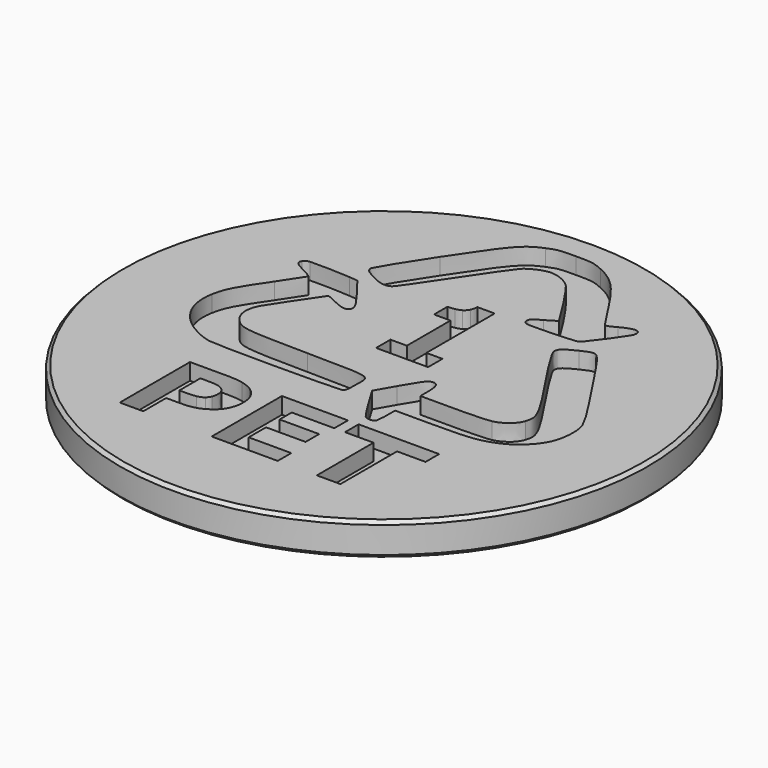
from build123d import *

# Parameters (mm, degrees)
POCKET_DEPTH = 1.25


with BuildPart() as part:
    # Sketch (on DatumPlane) → Revolution (revolve)
    with BuildSketch(Plane.YZ):
        Polygon((0, 0), (0, -2.5), (19.75, -2.5), (20, -2.25), (20, -0.25), (19.75, 0), align=None)
    revolve(axis=Axis((0, 0, 0), (0, 0, 1)))

    # Sketch006 → Pocket (cut)
    with BuildSketch(Plane.XY):
        with BuildLine():
            add(Edge.make_bspline(
                [(9.661198, -8.135516), (7.501708, -8.135516)],
                knots=[0, 0, 5.3, 5.3], degree=1))
            add(Edge.make_bspline(
                [(7.501708, -8.135516), (7.501708, -13.500281)],
                knots=[0, 0, 15.144, 15.144], degree=1))
            add(Edge.make_bspline(
                [(7.501708, -13.500281), (5.718703, -13.500281)],
                knots=[0, 0, 4.376, 4.376], degree=1))
            add(Edge.make_bspline(
                [(5.718703, -13.500281), (5.718703, -8.135516)],
                knots=[0, 0, 15.144, 15.144], degree=1))
            add(Edge.make_bspline(
                [(5.718703, -8.135516), (3.559213, -8.135516)],
                knots=[0, 0, 5.3, 5.3], degree=1))
            add(Edge.make_bspline(
                [(3.559213, -8.135516), (3.559213, -6.848879)],
                knots=[0, 0, 3.632, 3.632], degree=1))
            add(Edge.make_bspline(
                [(3.559213, -6.848879), (9.661198, -6.848879)],
                knots=[0, 0, 14.976, 14.976], degree=1))
            add(Edge.make_bspline(
                [(9.661198, -6.848879), (9.661198, -8.135516)],
                knots=[0, 0, 3.632, 3.632], degree=1))
        make_face()
        with BuildLine():
            add(Edge.make_bspline(
                [(3.247105, -5.782232), (3.143613, -5.677374), (2.706011, -5.00359), (2.27452, -4.284462)],
                knots=[0, 0, 0, 0, 1, 1, 1, 1], degree=3))
            add(Edge.make_bspline(
                [(2.27452, -4.284462), (1.490585, -2.977279)],
                knots=[0, 0, 4.161475, 4.161475], degree=1))
            add(Edge.make_bspline(
                [(1.490585, -2.977279), (2.269223, -1.620855)],
                knots=[0, 0, 4.279388, 4.279388], degree=1))
            add(Edge.make_bspline(
                [(2.269223, -1.620855), (3.123648, -0.133359), (3.323299, 0.116033), (3.661483, 0.116033)],
                knots=[0, 0, 0, 0, 1, 1, 1, 1], degree=3))
            add(Edge.make_bspline(
                [(3.661483, 0.116033), (4.00089, 0.116033), (4.146757, -0.224755), (4.146757, -1.018276)],
                knots=[0, 0, 0, 0, 1, 1, 1, 1], degree=3))
            add(Edge.make_bspline(
                [(4.146757, -1.018276), (4.146757, -1.73209)],
                knots=[0, 0, 2.015, 2.015], degree=1))
            add(Edge.make_bspline(
                [(4.146757, -1.73209), (6.529937, -1.73209)],
                knots=[0, 0, 5.849, 5.849], degree=1))
            add(Edge.make_bspline(
                [(6.529937, -1.73209), (7.89612, -1.73209), (9.153921, -1.679306), (9.477845, -1.608456)],
                knots=[0, 0, 0, 0, 1, 1, 1, 1], degree=3))
            add(Edge.make_bspline(
                [(9.477845, -1.608456), (10.2027, -1.449752), (10.834249, -0.932901), (11.014342, -0.350868)],
                knots=[0, 0, 0, 0, 1, 1, 1, 1], degree=3))
            add(Edge.make_bspline(
                [(11.014342, -0.350868), (11.289779, 0.537945), (11.208289, 0.693816), (7.773478, 5.851344)],
                knots=[0, 0, 0, 0, 1, 1, 1, 1], degree=3))
            add(Edge.make_bspline(
                [(7.773478, 5.851344), (7.205898, 6.703316), (6.741404, 7.522696), (6.741404, 7.671836)],
                knots=[0, 0, 0, 0, 1, 1, 1, 1], degree=3))
            add(Edge.make_bspline(
                [(6.741404, 7.671836), (6.741404, 8.043798), (6.933721, 8.216318), (7.841522, 8.657714)],
                knots=[0, 0, 0, 0, 1, 1, 1, 1], degree=3))
            add(Edge.make_bspline(
                [(7.841522, 8.657714), (8.502815, 8.979019), (8.667017, 9.018695), (8.916785, 8.917734)],
                knots=[0, 0, 0, 0, 1, 1, 1, 1], degree=3))
            add(Edge.make_bspline(
                [(8.916785, 8.917734), (9.101767, 8.842633), (9.559335, 8.266268), (10.148916, 7.365409)],
                knots=[0, 0, 0, 0, 1, 1, 1, 1], degree=3))
            add(Edge.make_bspline(
                [(10.148916, 7.365409), (10.664342, 6.577557), (11.714343, 4.988745), (12.482388, 3.834952)],
                knots=[0, 0, 0, 0, 1, 1, 1, 1], degree=3))
            add(Edge.make_bspline(
                [(12.482388, 3.834952), (13.308291, 2.593659), (13.940247, 1.512842), (14.029886, 1.187995)],
                knots=[0, 0, 0, 0, 1, 1, 1, 1], degree=3))
            add(Edge.make_bspline(
                [(14.029886, 1.187995), (14.262133, 0.345588), (14.131749, -0.907041), (13.736522, -1.628649)],
                knots=[0, 0, 0, 0, 1, 1, 1, 1], degree=3))
            add(Edge.make_bspline(
                [(13.736522, -1.628649), (13.318069, -2.392412), (12.471794, -3.163969), (11.659744, -3.521762)],
                knots=[0, 0, 0, 0, 1, 1, 1, 1], degree=3))
            add(Edge.make_bspline(
                [(11.659744, -3.521762), (10.482619, -4.040384), (9.816436, -4.123987), (6.871381, -4.123987)],
                knots=[0, 0, 0, 0, 1, 1, 1, 1], degree=3))
            add(Edge.make_bspline(
                [(6.871381, -4.123987), (4.146757, -4.123987)],
                knots=[0, 0, 6.687, 6.687], degree=1))
            add(Edge.make_bspline(
                [(4.146757, -4.123987), (4.146757, -4.87606)],
                knots=[0, 0, 2.123, 2.123], degree=1))
            add(Edge.make_bspline(
                [(4.146757, -4.87606), (4.146757, -5.289824), (4.112531, -5.705714), (4.070971, -5.800299)],
                knots=[0, 0, 0, 0, 1, 1, 1, 1], degree=3))
            add(Edge.make_bspline(
                [(4.070971, -5.800299), (3.969516, -6.029853), (3.48139, -6.019226), (3.247105, -5.782232)],
                knots=[0, 0, 0, 0, 1, 1, 1, 1], degree=3))
        make_face()
        with BuildLine():
            add(Edge.make_bspline(
                [(-10.046388, -4.021963), (-10.75686, -3.870344), (-11.776058, -3.340386), (-12.360831, -2.818575)],
                knots=[0, 0, 0, 0, 1, 1, 1, 1], degree=3))
            add(Edge.make_bspline(
                [(-12.360831, -2.818575), (-13.433609, -1.861037), (-13.885512, -0.590341), (-13.630611, 0.751558)],
                knots=[0, 0, 0, 0, 1, 1, 1, 1], degree=3))
            add(Edge.make_bspline(
                [(-13.630611, 0.751558), (-13.440723, 1.751252), (-13.149941, 2.307425), (-11.754707, 4.339404)],
                knots=[0, 0, 0, 0, 1, 1, 1, 1], degree=3))
            add(Edge.make_bspline(
                [(-11.754707, 4.339404), (-11.124625, 5.257266), (-10.609118, 6.047599), (-10.609118, 6.095777)],
                knots=[0, 0, 0, 0, 1, 1, 1, 1], degree=3))
            add(Edge.make_bspline(
                [(-10.609118, 6.095777), (-10.609118, 6.144309), (-10.906394, 6.329582), (-11.269759, 6.50777)],
                knots=[0, 0, 0, 0, 1, 1, 1, 1], degree=3))
            add(Edge.make_bspline(
                [(-11.269759, 6.50777), (-12.131029, 6.93039), (-12.293846, 7.101139), (-12.113957, 7.393395)],
                knots=[0, 0, 0, 0, 1, 1, 1, 1], degree=3))
            add(Edge.make_bspline(
                [(-12.113957, 7.393395), (-12.038008, 7.516674), (-11.851232, 7.622595), (-11.698886, 7.628617)],
                knots=[0, 0, 0, 0, 1, 1, 1, 1], degree=3))
            add(Edge.make_bspline(
                [(-11.698886, 7.628617), (-11.049654, 7.654123), (-9.246236, 7.607008), (-8.649728, 7.548911)],
                knots=[0, 0, 0, 0, 1, 1, 1, 1], degree=3))
            add(Edge.make_bspline(
                [(-8.649728, 7.548911), (-8.003103, 7.486209)],
                knots=[0, 0, 1.59684, 1.59684], degree=1))
            add(Edge.make_bspline(
                [(-8.003103, 7.486209), (-6.992625, 6.184339)],
                knots=[0, 0, 4.433512, 4.433512], degree=1))
            add(Edge.make_bspline(
                [(-6.992625, 6.184339), (-5.959737, 4.853421), (-5.797979, 4.449576), (-6.218875, 4.253676)],
                knots=[0, 0, 0, 0, 1, 1, 1, 1], degree=3))
            add(Edge.make_bspline(
                [(-6.218875, 4.253676), (-6.404266, 4.167593), (-6.634068, 4.226044), (-7.27784, 4.52326)],
                knots=[0, 0, 0, 0, 1, 1, 1, 1], degree=3))
            add(Edge.make_bspline(
                [(-7.27784, 4.52326), (-8.100484, 4.902662)],
                knots=[0, 0, 2.285476, 2.285476], degree=1))
            add(Edge.make_bspline(
                [(-8.100484, 4.902662), (-8.27691, 4.656458)],
                knots=[0, 0, 0.818849, 0.818849], degree=1))
            add(Edge.make_bspline(
                [(-8.27691, 4.656458), (-8.785816, 3.947604), (-10.185695, 1.844066), (-10.440841, 1.404796)],
                knots=[0, 0, 0, 0, 1, 1, 1, 1], degree=3))
            add(Edge.make_bspline(
                [(-10.440841, 1.404796), (-10.873309, 0.660162), (-10.846947, -0.150717), (-10.371778, -0.72106)],
                knots=[0, 0, 0, 0, 1, 1, 1, 1], degree=3))
            add(Edge.make_bspline(
                [(-10.371778, -0.72106), (-9.694676, -1.53371), (-9.519228, -1.560633), (-4.502855, -1.622981)],
                knots=[0, 0, 0, 0, 1, 1, 1, 1], degree=3))
            add(Edge.make_bspline(
                [(-4.502855, -1.622981), (0.675031, -1.687454), (0.270025, -1.570552), (0.270025, -2.999597)],
                knots=[0, 0, 0, 0, 1, 1, 1, 1], degree=3))
            add(Edge.make_bspline(
                [(0.270025, -2.999597), (0.270025, -3.77753), (0.237429, -3.914271), (0.027999, -4.01169)],
                knots=[0, 0, 0, 0, 1, 1, 1, 1], degree=3))
            add(Edge.make_bspline(
                [(0.027999, -4.01169), (-0.250698, -4.141345), (-9.442383, -4.150556), (-10.046632, -4.021963)],
                knots=[0, 0, 0, 0, 1, 1, 1, 1], degree=3))
            add(Edge.make_bspline(
                [(-10.046632, -4.021963), (-10.046388, -4.021963)],
                knots=[0, 0, 0.0006, 0.0006], degree=1))
        make_face()
        with BuildLine():
            add(Edge.make_bspline(
                [(-7.369924, 8.35731), (-8.202346, 8.782056), (-8.3584, 8.917734), (-8.3584, 9.21495)],
                knots=[0, 0, 0, 0, 1, 1, 1, 1], degree=3))
            add(Edge.make_bspline(
                [(-8.3584, 9.21495), (-8.3584, 9.360901), (-7.332439, 11.029773), (-6.07749, 12.925366)],
                knots=[0, 0, 0, 0, 1, 1, 1, 1], degree=3))
            add(Edge.make_bspline(
                [(-6.07749, 12.925366), (-3.599781, 16.667665), (-3.185403, 17.141298), (-1.915379, 17.681529)],
                knots=[0, 0, 0, 0, 1, 1, 1, 1], degree=3))
            add(Edge.make_bspline(
                [(-1.915379, 17.681529), (-1.233714, 17.971398), (-1.052398, 17.999352), (0.150805, 17.999982)],
                knots=[0, 0, 0, 0, 1, 1, 1, 1], degree=3))
            add(Edge.make_bspline(
                [(0.150805, 17.999982), (1.407383, 18.000644), (1.510061, 17.982915), (2.319258, 17.626036)],
                knots=[0, 0, 0, 0, 1, 1, 1, 1], degree=3))
            add(Edge.make_bspline(
                [(2.319258, 17.626036), (3.560354, 17.078861), (4.353661, 16.262421), (5.709657, 14.137947)],
                knots=[0, 0, 0, 0, 1, 1, 1, 1], degree=3))
            add(Edge.make_bspline(
                [(5.709657, 14.137947), (6.328575, 13.16801), (6.891265, 12.308953), (6.960124, 12.228538)],
                knots=[0, 0, 0, 0, 1, 1, 1, 1], degree=3))
            add(Edge.make_bspline(
                [(6.960124, 12.228538), (7.060764, 12.111636), (7.220078, 12.157334), (7.767284, 12.459864)],
                knots=[0, 0, 0, 0, 1, 1, 1, 1], degree=3))
            add(Edge.make_bspline(
                [(7.767284, 12.459864), (8.761872, 13.009306), (9.301744, 12.930662), (9.102501, 12.26538)],
                knots=[0, 0, 0, 0, 1, 1, 1, 1], degree=3))
            add(Edge.make_bspline(
                [(9.102501, 12.26538), (9.015714, 11.975604), (7.335386, 9.675457), (7.130031, 9.565285)],
                knots=[0, 0, 0, 0, 1, 1, 1, 1], degree=3))
            add(Edge.make_bspline(
                [(7.130031, 9.565285), (6.927121, 9.456176), (3.604358, 9.31979), (3.286547, 9.407644)],
                knots=[0, 0, 0, 0, 1, 1, 1, 1], degree=3))
            add(Edge.make_bspline(
                [(3.286547, 9.407644), (3.110528, 9.456176), (3.021296, 9.570953), (3.021296, 9.748787)],
                knots=[0, 0, 0, 0, 1, 1, 1, 1], degree=3))
            add(Edge.make_bspline(
                [(3.021296, 9.748787), (3.021296, 9.958149), (3.183462, 10.104808), (3.765709, 10.4208)],
                knots=[0, 0, 0, 0, 1, 1, 1, 1], degree=3))
            add(Edge.make_bspline(
                [(3.765709, 10.4208), (4.175197, 10.643269), (4.512974, 10.868572), (4.516234, 10.922064)],
                knots=[0, 0, 0, 0, 1, 1, 1, 1], degree=3))
            add(Edge.make_bspline(
                [(4.516234, 10.922064), (4.523568, 11.052428), (2.447605, 14.20986), (2.051563, 14.669322)],
                knots=[0, 0, 0, 0, 1, 1, 1, 1], degree=3))
            add(Edge.make_bspline(
                [(2.051563, 14.669322), (1.697488, 15.080819), (0.895217, 15.44095), (0.332528, 15.44095)],
                knots=[0, 0, 0, 0, 1, 1, 1, 1], degree=3))
            add(Edge.make_bspline(
                [(0.332528, 15.44095), (-0.172304, 15.44095), (-0.968463, 15.107955), (-1.377544, 14.725542)],
                knots=[0, 0, 0, 0, 1, 1, 1, 1], degree=3))
            add(Edge.make_bspline(
                [(-1.377544, 14.725542), (-1.561304, 14.553588), (-2.618232, 13.042959), (-3.726091, 11.368773)],
                knots=[0, 0, 0, 0, 1, 1, 1, 1], degree=3))
            add(Edge.make_bspline(
                [(-3.726091, 11.368773), (-4.833542, 9.694232), (-5.833427, 8.263416), (-5.947513, 8.188669)],
                knots=[0, 0, 0, 0, 1, 1, 1, 1], degree=3))
            add(Edge.make_bspline(
                [(-5.947513, 8.188669), (-6.267362, 7.979307), (-6.739598, 8.035279), (-7.369924, 8.357292)],
                knots=[0, 0, 0, 0, 1, 1, 1, 1], degree=3))
            add(Edge.make_bspline(
                [(-7.369924, 8.357292), (-7.369924, 8.35731)],
                knots=[0, 0, 5e-05, 5e-05], degree=1))
        make_face()
        with BuildLine():
            add(Edge.make_bspline(
                [(2.19303, 1.440929), (-1.747835, 1.440929)],
                knots=[0, 0, 9.672, 9.672], degree=1))
            add(Edge.make_bspline(
                [(-1.747835, 1.440929), (-1.747835, 2.804438)],
                knots=[0, 0, 3.849, 3.849], degree=1))
            add(Edge.make_bspline(
                [(-1.747835, 2.804438), (-0.503073, 2.804438)],
                knots=[0, 0, 3.055, 3.055], degree=1))
            add(Edge.make_bspline(
                [(-0.503073, 2.804438), (-0.503073, 6.932161)],
                knots=[0, 0, 11.652, 11.652], degree=1))
            add(Edge.make_bspline(
                [(-0.503073, 6.932161), (-1.747835, 6.932161)],
                knots=[0, 0, 3.055, 3.055], degree=1))
            add(Edge.make_bspline(
                [(-1.747835, 6.932161), (-1.747835, 8.206399)],
                knots=[0, 0, 3.597, 3.597], degree=1))
            add(Edge.make_bspline(
                [(-1.747835, 8.206399), (-1.557556, 8.206399), (-1.375425, 8.221278), (-1.200629, 8.251035)],
                knots=[0, 0, 0, 0, 1, 1, 1, 1], degree=3))
            add(Edge.make_bspline(
                [(-1.200629, 8.251035), (-1.02624, 8.280792), (-0.881187, 8.332512), (-0.764656, 8.405842)],
                knots=[0, 0, 0, 0, 1, 1, 1, 1], degree=3))
            add(Edge.make_bspline(
                [(-0.764656, 8.405842), (-0.627345, 8.493342), (-0.52426, 8.606702), (-0.455401, 8.746631)],
                knots=[0, 0, 0, 0, 1, 1, 1, 1], degree=3))
            add(Edge.make_bspline(
                [(-0.455401, 8.746631), (-0.386949, 8.88656), (-0.347019, 9.061559), (-0.336425, 9.271275)],
                knots=[0, 0, 0, 0, 1, 1, 1, 1], degree=3))
            add(Edge.make_bspline(
                [(-0.336425, 9.271275), (0.975567, 9.271275)],
                knots=[0, 0, 3.22, 3.22], degree=1))
            add(Edge.make_bspline(
                [(0.975567, 9.271275), (0.975567, 2.804438)],
                knots=[0, 0, 18.255, 18.255], degree=1))
            add(Edge.make_bspline(
                [(0.975567, 2.804438), (2.19303, 2.804438)],
                knots=[0, 0, 2.988, 2.988], degree=1))
            add(Edge.make_bspline(
                [(2.19303, 2.804438), (2.19303, 1.440929)],
                knots=[0, 0, 3.849, 3.849], degree=1))
        make_face()
        with BuildLine():
            add(Edge.make_bspline(
                [(-3.509245, -8.94852), (-3.509245, -9.24609), (-3.563436, -9.537284), (-3.671411, -9.821747)],
                knots=[0, 0, 0, 0, 1, 1, 1, 1], degree=3))
            add(Edge.make_bspline(
                [(-3.671411, -9.821747), (-3.779793, -10.10621), (-3.934624, -10.344975), (-4.135905, -10.538749)],
                knots=[0, 0, 0, 0, 1, 1, 1, 1], degree=3))
            add(Edge.make_bspline(
                [(-4.135905, -10.538749), (-4.411342, -10.80054), (-4.718967, -10.998566), (-5.057966, -11.132827)],
                knots=[0, 0, 0, 0, 1, 1, 1, 1], degree=3))
            add(Edge.make_bspline(
                [(-5.057966, -11.132827), (-5.396965, -11.266734), (-5.818677, -11.333687), (-6.323509, -11.333687)],
                knots=[0, 0, 0, 0, 1, 1, 1, 1], degree=3))
            add(Edge.make_bspline(
                [(-6.323509, -11.333687), (-7.433405, -11.333687)],
                knots=[0, 0, 2.724, 2.724], degree=1))
            add(Edge.make_bspline(
                [(-7.433405, -11.333687), (-7.433405, -13.500281)],
                knots=[0, 0, 6.116, 6.116], degree=1))
            add(Edge.make_bspline(
                [(-7.433405, -13.500281), (-9.21641, -13.500281)],
                knots=[0, 0, 4.376, 4.376], degree=1))
            add(Edge.make_bspline(
                [(-9.21641, -13.500281), (-9.21641, -6.848879)],
                knots=[0, 0, 18.776, 18.776], degree=1))
            add(Edge.make_bspline(
                [(-9.21641, -6.848879), (-6.281541, -6.848879)],
                knots=[0, 0, 7.203, 7.203], degree=1))
            add(Edge.make_bspline(
                [(-6.281541, -6.848879), (-5.841902, -6.848879), (-5.471122, -6.885367), (-5.1692, -6.958343)],
                knots=[0, 0, 0, 0, 1, 1, 1, 1], degree=3))
            add(Edge.make_bspline(
                [(-5.1692, -6.958343), (-4.867279, -7.031318), (-4.600399, -7.140782), (-4.368152, -7.286733)],
                knots=[0, 0, 0, 0, 1, 1, 1, 1], degree=3))
            add(Edge.make_bspline(
                [(-4.368152, -7.286733), (-4.089456, -7.462441), (-3.876766, -7.687035), (-3.729676, -7.961225)],
                knots=[0, 0, 0, 0, 1, 1, 1, 1], degree=3))
            add(Edge.make_bspline(
                [(-3.729676, -7.961225), (-3.582587, -8.23506), (-3.509245, -8.564159), (-3.509245, -8.94852)],
                knots=[0, 0, 0, 0, 1, 1, 1, 1], degree=3))
        make_face()
        with BuildLine():
            add(Edge.make_bspline(
                [(-5.352553, -8.988551), (-5.352553, -8.800798), (-5.405522, -8.63926), (-5.510644, -8.503936)],
                knots=[0, 0, 0, 0, 1, 1, 1, 1], degree=3))
            add(Edge.make_bspline(
                [(-5.510644, -8.503936), (-5.615767, -8.368259), (-5.738002, -8.273674), (-5.87735, -8.220182)],
                knots=[0, 0, 0, 0, 1, 1, 1, 1], degree=3))
            add(Edge.make_bspline(
                [(-5.87735, -8.220182), (-6.063148, -8.148623), (-6.244463, -8.109302), (-6.42089, -8.101862)],
                knots=[0, 0, 0, 0, 1, 1, 1, 1], degree=3))
            add(Edge.make_bspline(
                [(-6.42089, -8.101862), (-6.597316, -8.094423), (-6.832415, -8.090526), (-7.126595, -8.090526)],
                knots=[0, 0, 0, 0, 1, 1, 1, 1], degree=3))
            add(Edge.make_bspline(
                [(-7.126595, -8.090526), (-7.433405, -8.090526)],
                knots=[0, 0, 0.753, 0.753], degree=1))
            add(Edge.make_bspline(
                [(-7.433405, -8.090526), (-7.433405, -10.082829)],
                knots=[0, 0, 5.624, 5.624], degree=1))
            add(Edge.make_bspline(
                [(-7.433405, -10.082829), (-6.922462, -10.082829)],
                knots=[0, 0, 1.254, 1.254], degree=1))
            add(Edge.make_bspline(
                [(-6.922462, -10.082829), (-6.618911, -10.082829), (-6.369143, -10.065117), (-6.172345, -10.029338)],
                knots=[0, 0, 0, 0, 1, 1, 1, 1], degree=3))
            add(Edge.make_bspline(
                [(-6.172345, -10.029338), (-5.975953, -9.993558), (-5.810936, -9.922354), (-5.677699, -9.815016)],
                knots=[0, 0, 0, 0, 1, 1, 1, 1], degree=3))
            add(Edge.make_bspline(
                [(-5.677699, -9.815016), (-5.563205, -9.719723), (-5.480493, -9.605654), (-5.429154, -9.473165)],
                knots=[0, 0, 0, 0, 1, 1, 1, 1], degree=3))
            add(Edge.make_bspline(
                [(-5.429154, -9.473165), (-5.378223, -9.340675), (-5.352553, -9.179137), (-5.352553, -8.988551)],
                knots=[0, 0, 0, 0, 1, 1, 1, 1], degree=3))
        make_face(mode=Mode.SUBTRACT)
        with BuildLine():
            add(Edge.make_bspline(
                [(2.751238, -13.500281), (-2.25063, -13.500281)],
                knots=[0, 0, 12.276, 12.276], degree=1))
            add(Edge.make_bspline(
                [(-2.25063, -13.500281), (-2.25063, -6.848879)],
                knots=[0, 0, 18.776, 18.776], degree=1))
            add(Edge.make_bspline(
                [(-2.25063, -6.848879), (2.751238, -6.848879)],
                knots=[0, 0, 12.276, 12.276], degree=1))
            add(Edge.make_bspline(
                [(2.751238, -6.848879), (2.751238, -8.135516)],
                knots=[0, 0, 3.632, 3.632], degree=1))
            add(Edge.make_bspline(
                [(2.751238, -8.135516), (-0.476588, -8.135516)],
                knots=[0, 0, 7.922, 7.922], degree=1))
            add(Edge.make_bspline(
                [(-0.476588, -8.135516), (-0.476588, -9.283287)],
                knots=[0, 0, 3.24, 3.24], degree=1))
            add(Edge.make_bspline(
                [(-0.476588, -9.283287), (2.518991, -9.283287)],
                knots=[0, 0, 7.352, 7.352], degree=1))
            add(Edge.make_bspline(
                [(2.518991, -9.283287), (2.518991, -10.569923)],
                knots=[0, 0, 3.632, 3.632], degree=1))
            add(Edge.make_bspline(
                [(2.518991, -10.569923), (-0.476588, -10.569923)],
                knots=[0, 0, 7.352, 7.352], degree=1))
            add(Edge.make_bspline(
                [(-0.476588, -10.569923), (-0.476588, -12.213644)],
                knots=[0, 0, 4.64, 4.64], degree=1))
            add(Edge.make_bspline(
                [(-0.476588, -12.213644), (2.751238, -12.213644)],
                knots=[0, 0, 7.922, 7.922], degree=1))
            add(Edge.make_bspline(
                [(2.751238, -12.213644), (2.751238, -13.500281)],
                knots=[0, 0, 3.632, 3.632], degree=1))
        make_face()
    extrude(amount=-POCKET_DEPTH, mode=Mode.SUBTRACT)


solid = part.part
